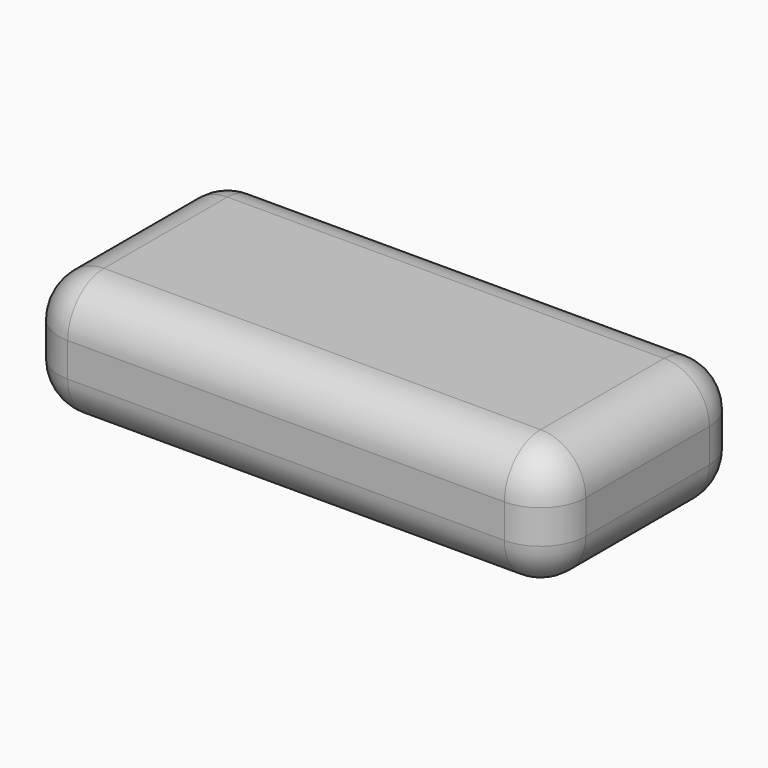
from build123d import *

# Parameters (mm, degrees)
F1_DEPTH = 11
F2_R     = 8
F3_W     = 12.6
F3_H     = 5.3
F4_DEPTH = 25
F5_W     = 7.9238843173
F5_H     = 2.3
F6_DEPTH = 25


with BuildPart() as f1:
    # F0 (on Top) → F1 (new body, symmetric)
    with BuildSketch(Plane.XY):
        with BuildLine():
            Line((-38.625, -21.65), (38.625, -21.65))
            ThreePointArc((38.625, -21.65), (44.2818542495, -19.3068542495), (46.625, -13.65))
            Line((46.625, -13.65), (46.625, 13.65))
            ThreePointArc((46.625, 13.65), (44.2818542495, 19.3068542495), (38.625, 21.65))
            Line((38.625, 21.65), (-38.625, 21.65))
            ThreePointArc((-38.625, 21.65), (-44.2818542495, 19.3068542495), (-46.625, 13.65))
            Line((-46.625, 13.65), (-46.625, -13.65))
            ThreePointArc((-46.625, -13.65), (-44.2818542495, -19.3068542495), (-38.625, -21.65))
        make_face()
    extrude(amount=F1_DEPTH, both=True)

    # F2
    f2_edges = [f1.edges().sort_by_distance(p)[0] for p in [
        (0, -21.65, 11),
        (44.281854, -19.306854, 11),
        (46.625, 0, 11),
        (44.281854, 19.306854, 11),
        (0, 21.65, 11),
        (-44.281854, 19.306854, 11),
        (-46.625, 0, 11),
        (-44.281854, -19.306854, 11),
        (0, -21.65, -11),
        (44.281854, -19.306854, -11),
        (46.625, 0, -11),
        (44.281854, 19.306854, -11),
        (0, 21.65, -11),
        (-44.281854, 19.306854, -11),
        (-46.625, 0, -11),
        (-44.281854, -19.306854, -11),
    ]]
    fillet(f2_edges, radius=F2_R)

    # F3 (on face) → F4 (cut)
    with BuildSketch(Plane(origin=(-46.625, 0, 0), x_dir=(0, -1, 0), z_dir=(-1, 0, 0))):
        with Locations((-5.15, 1.15)):
            Rectangle(F3_W, F3_H)
    extrude(amount=-F4_DEPTH, mode=Mode.SUBTRACT)

    # F5 (on face) → F6 (cut)
    with BuildSketch(Plane(origin=(0, 21.65, 0), x_dir=(-1, 0, 0), z_dir=(0, 1, 0))):
        with Locations((32.0630578414, -0.65)):
            Rectangle(F5_W, F5_H)
    extrude(amount=-F6_DEPTH, mode=Mode.SUBTRACT)


solid = f1.part
